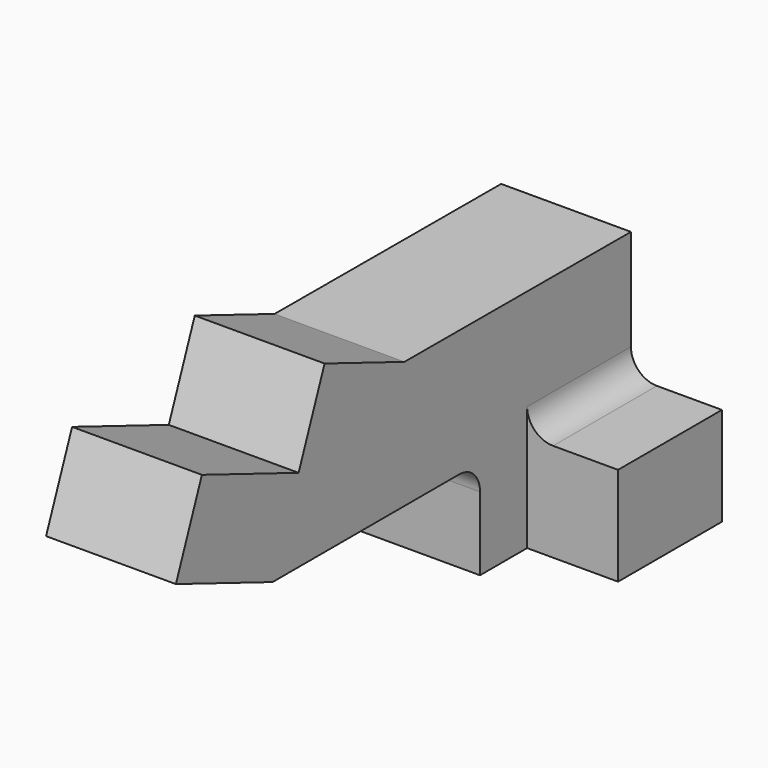
from build123d import *

# Parameters (mm, degrees)
F1_DEPTH = 25.4
F2_R     = 5.08
F3_W     = 25.4
F3_H     = 17.4376570841
F4_DEPTH = 25.4
F5_W     = 17.797825551
F5_H     = 19.2676950246
F6_DEPTH = 25.4
F7_R     = 5.08


with BuildPart() as f1:
    # F0 (on Right) → F1 (new body)
    with BuildSketch(Plane.YZ):
        Polygon((136.5167200565, 44.1473908722), (81.1095386744, 44.2778617144), (61.5900829434, 51.9239269197), (48.8699753419, 19.451070548), (99.5989143848, 19.451070548), (99.5989143848, 0), (136.5167200565, 0), align=None)
    extrude(amount=F1_DEPTH)

    # F2
    f2_edges = [f1.edges().sort_by_distance(p)[0] for p in [
        (12.7, 99.598914, 19.451071),
    ]]
    fillet(f2_edges, radius=F2_R)

    # F3 (on face) → F4 (join)
    with BuildSketch(Plane(origin=(0, 35.7631713916, -14.0089736199), x_dir=(1, 0, 0), z_dir=(0, -0.9311129418, 0.3647309825))):
        with Locations((12.7, 44.6543661825)):
            Rectangle(F3_W, F3_H)
    extrude(amount=F4_DEPTH)

    # F5 (on face) → F6 (join)
    with BuildSketch(Plane(origin=(0, 136.5167200565, 0), x_dir=(-1, 0, 0), z_dir=(0, 1, 0))):
        with Locations((-34.2989127755, 9.6338475123)):
            Rectangle(F5_W, F5_H)
    extrude(amount=-F6_DEPTH)

    # F7
    f7_edges = [f1.edges().sort_by_distance(p)[0] for p in [
        (25.4, 123.81672, 19.267695),
    ]]
    fillet(f7_edges, radius=F7_R)


solid = f1.part
